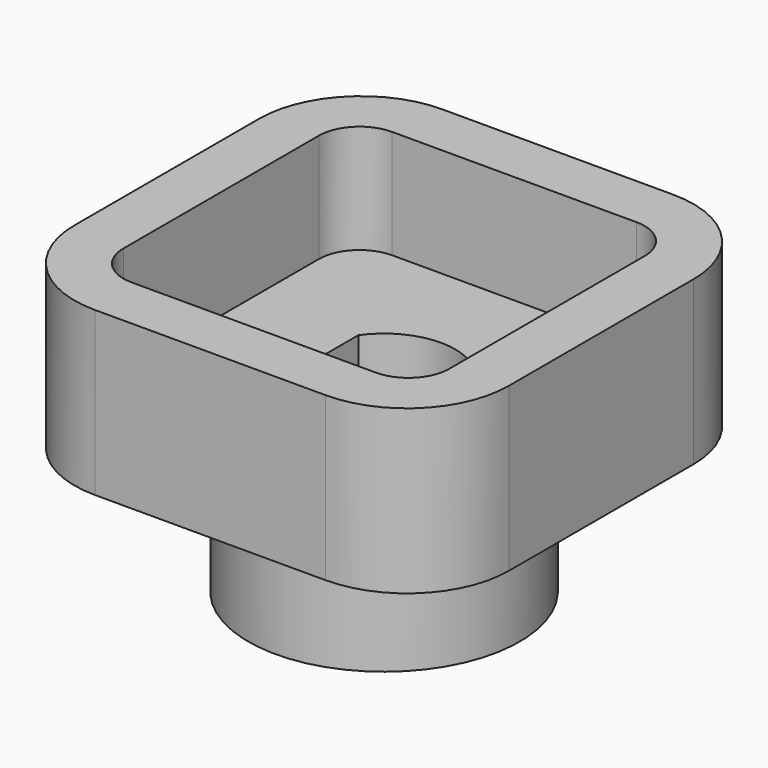
from build123d import *

# Parameters (mm, degrees)
PAD_DEPTH    = 4
PAD001_DEPTH = 2
SKETCH002_R  = 5
PAD002_DEPTH = 7
SKETCH003_R  = 1.15
POCKET_DEPTH = 5


with BuildPart() as part:
    # Sketch → Pad (new body)
    with BuildSketch(Plane.XY):
        with BuildLine():
            Line((-4.25, 8), (4.25, 8))
            ThreePointArc((8, 4.25), (6.90165, 6.90165), (4.25, 8))
            Line((8, 4.25), (8, -4.25))
            ThreePointArc((4.25, -8), (6.90165, -6.90165), (8, -4.25))
            Line((4.25, -8), (-4.25, -8))
            ThreePointArc((-8, -4.25), (-6.90165, -6.90165), (-4.25, -8))
            Line((-8, -4.25), (-8, 4.25))
            ThreePointArc((-4.25, 8), (-6.90165, 6.90165), (-8, 4.25))
        make_face()
        with BuildLine():
            Line((-4.5, 6), (4.5, 6))
            ThreePointArc((6, 4.5), (5.56066, 5.56066), (4.5, 6))
            Line((6, 4.5), (6, -4.5))
            ThreePointArc((4.5, -6), (5.56066, -5.56066), (6, -4.5))
            Line((4.5, -6), (-4.5, -6))
            ThreePointArc((-6, -4.5), (-5.56066, -5.56066), (-4.5, -6))
            Line((-6, -4.5), (-6, 4.5))
            ThreePointArc((-4.5, 6), (-5.56066, 5.56066), (-6, 4.5))
        make_face(mode=Mode.SUBTRACT)
    extrude(amount=PAD_DEPTH)

    # Sketch001 → Pad001 (join)
    with BuildSketch(Plane.XY):
        with BuildLine():
            Line((-4.25, 8), (4.25, 8))
            ThreePointArc((8, 4.25), (6.90165, 6.90165), (4.25, 8))
            Line((8, 4.25), (8, -4.25))
            ThreePointArc((4.25, -8), (6.90165, -6.90165), (8, -4.25))
            Line((4.25, -8), (-4.25, -8))
            ThreePointArc((-8, -4.25), (-6.90165, -6.90165), (-4.25, -8))
            Line((-8, -4.25), (-8, 4.25))
            ThreePointArc((-4.25, 8), (-6.90165, 6.90165), (-8, 4.25))
        make_face()
        with BuildLine():
            ThreePointArc((-2.15, -1.50603), (2.625, 0), (-2.15, 1.50603))
            Line((-2.15, 1.50603), (-2.15, -1.50603))
        make_face(mode=Mode.SUBTRACT)
    extrude(amount=-PAD001_DEPTH)

    # Sketch002 → Pad002 (join)
    with BuildSketch(Plane(origin=(0, 0, 0), x_dir=(-1, 0, 0), z_dir=(0, 0, 1))):
        Circle(SKETCH002_R)
        with BuildLine():
            ThreePointArc((2.15, 1.50603), (-2.625, 0), (2.15, -1.50603))
            Line((2.15, 1.50603), (2.15, -1.50603))
        make_face(mode=Mode.SUBTRACT)
    extrude(amount=-PAD002_DEPTH)

    # Sketch003 → Pocket (cut)
    with BuildSketch(Plane(origin=(0, 0, -4.5), x_dir=(0, 1, 0), z_dir=(1, 0, 0))):
        Circle(SKETCH003_R)
    extrude(amount=-POCKET_DEPTH, mode=Mode.SUBTRACT)


solid = part.part
